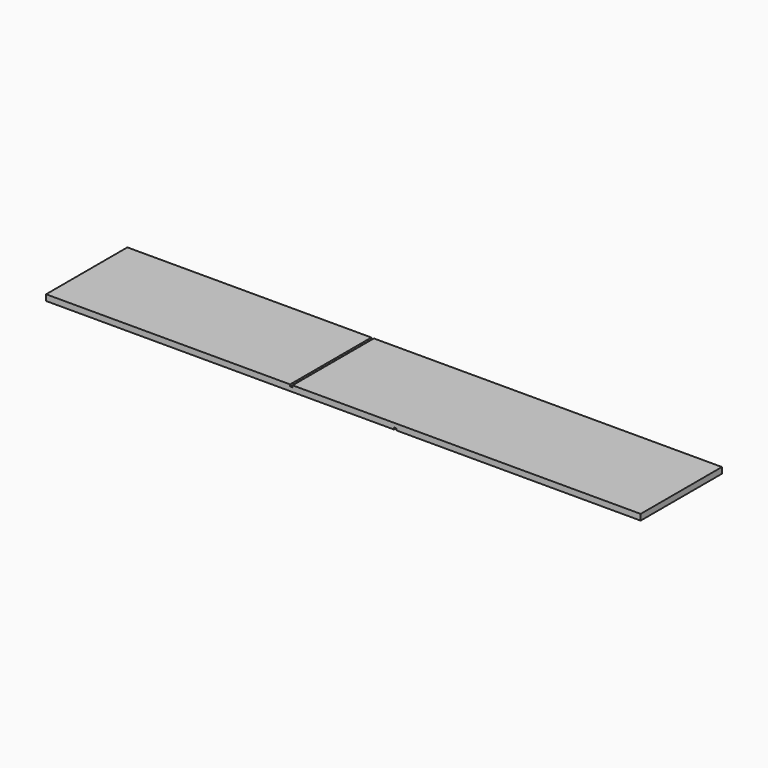
from build123d import *

# Parameters (mm, degrees)
F0_W     = 120
F0_H     = 20.5
F1_DEPTH = 1.2
F2_W     = 0.5
F2_H     = 20.5
F3_DEPTH = 0.375
F4_W     = 0.5
F4_H     = 20.5
F5_DEPTH = 0.375


with BuildPart() as f1:
    # F0 (on Top) → F1 (new body)
    with BuildSketch(Plane.XY):
        Rectangle(F0_W, F0_H)
    extrude(amount=F1_DEPTH)

    # F2 (on face) → F3 (cut)
    with BuildSketch(Plane.XY.offset(1.2)):
        with Locations((-10.5, 0)):
            Rectangle(F2_W, F2_H)
    extrude(amount=-F3_DEPTH, mode=Mode.SUBTRACT)

    # F4 (on face) → F5 (cut)
    with BuildSketch(Plane(origin=(0, 0, 0), x_dir=(1, 0, 0), z_dir=(0, 0, -1))):
        with Locations((10.5, 0)):
            Rectangle(F4_W, F4_H)
    extrude(amount=-F5_DEPTH, mode=Mode.SUBTRACT)


solid = f1.part
